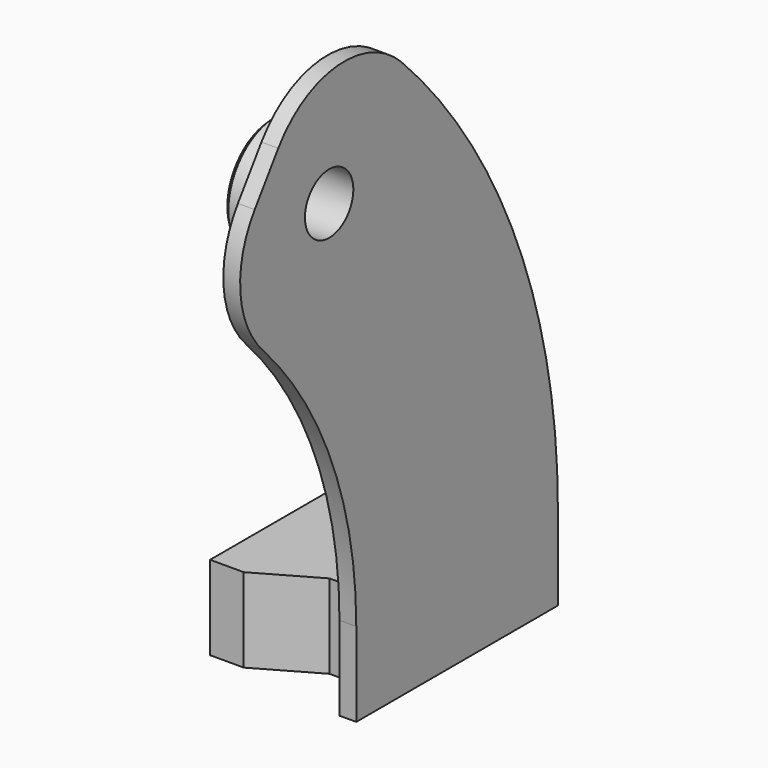
from build123d import *

# Parameters (mm, degrees)
PAD030_DEPTH         = 1
SKETCH054_R          = 3.5
PAD031_DEPTH         = 2.5
PAD032_DEPTH         = 5
SKETCH056_R          = 1.8
POCKET018_DEPTH      = 1.501
POCKET018_DEPTH_BACK = 8.001
CHAMFER005_SIZE      = 1
FILLET001_R          = 6
CHAMFER006_SIZE      = 0.3


with BuildPart() as part:
    # Sketch053 → Pad030 (new body)
    with BuildSketch(Plane.YZ.offset(45.5)):
        with BuildLine():
            ThreePointArc((40, 0), (35.4804333271, 18.4699445294), (22.943057454, 32.7660817716))
            Line((14.3394109088, 20.4788011072), (22.943057454, 32.7660817716))
            ThreePointArc((25, 0), (22.1752708295, 11.5437153309), (14.3394109088, 20.4788011072))
            Line((25, -5), (25, 0))
            Line((40, -5), (25, -5))
            Line((40, 0), (40, -5))
        make_face()
    extrude(amount=PAD030_DEPTH)

    # Sketch054 → Pad031 (join)
    with BuildSketch(Plane.YZ.offset(45.5)):
        with Locations((22.9809703886, 22.9809703886)):
            Circle(SKETCH054_R)
    extrude(amount=-PAD031_DEPTH)

    # Sketch055 → Pad032 (join)
    with BuildSketch(Plane.XY):
        Polygon((39, 39), (37, 39), (37, 26), (39, 26), (42.5, 28), (45.5, 28), (45.5, 37), (42.5, 37), align=None)
    extrude(amount=-PAD032_DEPTH)

    # Sketch056 → Pocket018 (cut, two sides)
    with BuildSketch(Plane.YZ.offset(45)) as pocket018_sk:
        with Locations((22.9809703886, 22.9809703886)):
            Circle(SKETCH056_R)
    extrude(amount=POCKET018_DEPTH, mode=Mode.SUBTRACT)
    extrude(pocket018_sk.sketch, amount=-POCKET018_DEPTH_BACK, mode=Mode.SUBTRACT)

    # Chamfer005
    chamfer005_edges = [part.edges().sort_by_distance(p)[0] for p in [
        (43, 21.18097, 22.98097),
    ]]
    chamfer(chamfer005_edges, length=CHAMFER005_SIZE)

    # Fillet001
    fillet001_edges = [part.edges().sort_by_distance(p)[0] for p in [
        (46, 14.339411, 20.478801),
        (46, 22.943057, 32.766082),
    ]]
    fillet(fillet001_edges, radius=FILLET001_R)

    # Chamfer006
    chamfer006_edges = [part.edges().sort_by_distance(p)[0] for p in [
        (43, 19.48097, 22.98097),
    ]]
    chamfer(chamfer006_edges, length=CHAMFER006_SIZE)


solid = part.part
